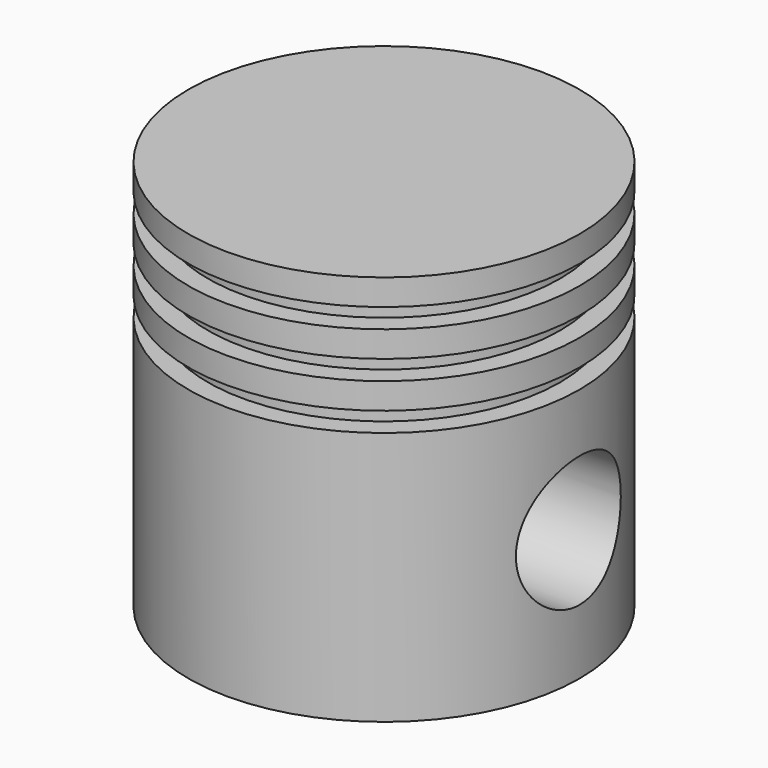
from build123d import *

# Parameters (mm, degrees)
F2_R     = 5.025
F3_DEPTH = 25
F4_W     = 11
F4_H     = 20
F5_DEPTH = 20


with BuildPart() as f1:
    # F0 (on Front) → F1 (revolve)
    with BuildSketch(Plane.XZ):
        Polygon((15, 15), (0, 15), (0, -15), (15, -15), (15, 4.5), (13.5, 4.5), (13.5, 6), (15, 6), (15, 8), (13.5, 8), (13.5, 9.5), (15, 9.5), (15, 11.5), (13.5, 11.5), (13.5, 13), (15, 13), align=None)
    revolve(axis=Axis((0, 0, 0), (0, 0, -1)))

    # F2 (on Right) → F3 (cut, symmetric)
    with BuildSketch(Plane.YZ):
        with Locations((0, -5)):
            Circle(F2_R)
    extrude(amount=F3_DEPTH, both=True, mode=Mode.SUBTRACT)

    # F4 (on face) → F5 (cut)
    with BuildSketch(Plane(origin=(0, 0, -15), x_dir=(1, 0, 0), z_dir=(0, 0, -1))):
        Rectangle(F4_W, F4_H)
    extrude(amount=-F5_DEPTH, mode=Mode.SUBTRACT)


solid = f1.part
